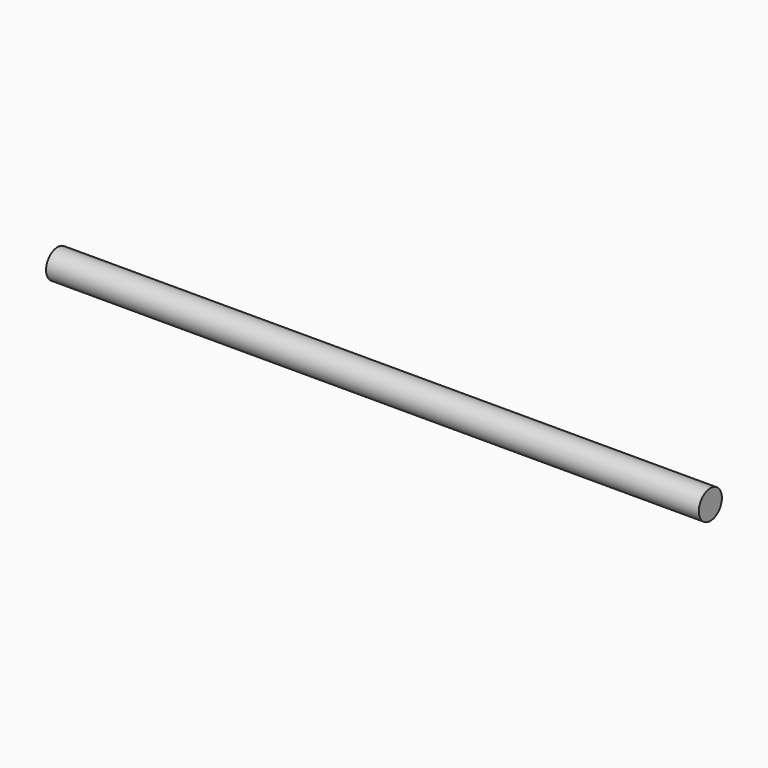
from build123d import *

# Parameters (mm, degrees)
F0_R     = 3.175
F1_DEPTH = 114.3
F2_W     = 91.892056
F2_H     = 41.328339
F3_DEPTH = 12.5


with BuildPart() as f1:
    # F0 (on Right) → F1 (new body, symmetric)
    with BuildSketch(Plane.YZ):
        Circle(F0_R)
    extrude(amount=F1_DEPTH, both=True)

    # F2 (on Top) → F3 (cut, symmetric)
    with BuildSketch(Plane.XY):
        with Locations((-75.128328, 2.68733)):
            Rectangle(F2_W, F2_H)
    extrude(amount=F3_DEPTH, both=True, mode=Mode.SUBTRACT)


solid = f1.part
